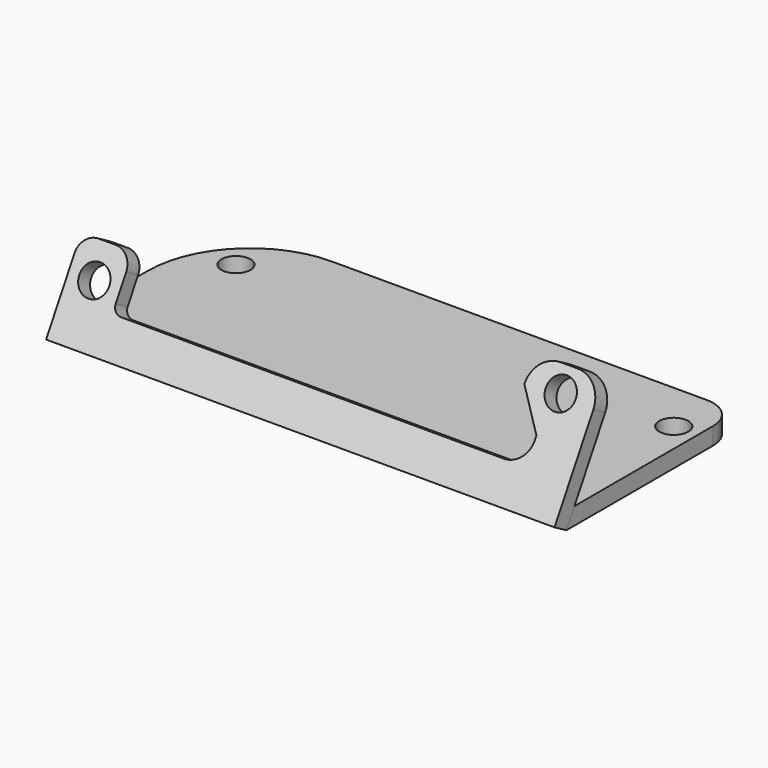
from build123d import *

# Parameters (mm, degrees)
SKETCH004_R          = 1.687519
PAD003_DEPTH         = 2
SKETCH003_R          = 1.746092
PAD002_DEPTH         = 2
FUSION001_ROLL_ANGLE = 90


with BuildPart() as base_and_horizontal_holder001:
    # Sketch004 → Pad003 (new body)
    with BuildSketch(Plane.XZ.offset(1.2525)):
        with BuildLine():
            Line((10.979984, 0), (69.999984, 0))
            Line((69.999984, 0), (69.999984, -21.282469))
            ThreePointArc((66.378106, -24.904346), (68.939161, -23.843523), (69.999984, -21.282469))
            Line((22.859289, -24.904346), (66.378106, -24.904346))
            ThreePointArc((10.979984, -13.025041), (14.459352, -21.424978), (22.859289, -24.904346))
            Line((10.979984, 0), (10.979984, -13.025041))
        make_face()
        with Locations((67.250754, -19)):
            Circle(SKETCH004_R, mode=Mode.SUBTRACT)
        with Locations((16.457754, -19)):
            Circle(SKETCH004_R, mode=Mode.SUBTRACT)
    extrude(amount=-PAD003_DEPTH)


with BuildPart() as obj1:
    # Sketch003 → Pad002 (new body)
    with BuildSketch(Plane(origin=(0, -0.167, -0.63), x_dir=(1, 0, 0), z_dir=(0, 0.5, 0.866025))):
        with BuildLine():
            Line((11.012519, -1.25328), (11.012519, 6.997142))
            ThreePointArc((13.001287, 8.992943), (11.59459, 8.405902), (11.012519, 6.997142))
            Line((13.001287, 8.992943), (15, 9))
            ThreePointArc((16.997615, 7.009425), (16.412099, 8.419465), (15, 9))
            Line((16.997615, 7.009425), (16.997615, 4))
            ThreePointArc((16.997615, 4), (17.290509, 3.292893), (17.997615, 3))
            Line((17.997615, 3), (62, 3))
            Line((62, 3), (62.401287, 3))
            ThreePointArc((62.401287, 3), (64.238855, 3.761145), (65, 5.598713))
            Line((65, 5.598713), (65, 6))
            Line((65, 6), (62, 10))
            ThreePointArc((65, 13), (62.87868, 12.12132), (62, 10))
            Line((65, 13), (67, 13))
            ThreePointArc((70, 10), (69.12132, 12.12132), (67, 13))
            Line((70, 10), (70, -1.25328))
            Line((11.012519, -1.25328), (70, -1.25328))
        make_face()
        with Locations((13.988471, 5.299093)):
            Circle(SKETCH003_R, mode=Mode.SUBTRACT)
        with Locations((66.082271, 10.342403)):
            Circle(SKETCH003_R, mode=Mode.SUBTRACT)
    extrude(amount=PAD002_DEPTH)

    # Fusion001: union base_and_horizontal_holder001
    add(base_and_horizontal_holder001.part)


with BuildPart() as obj1_1:
    # Fusion001 roll: moved
    add(obj1.part.rotate(Axis((0, 0, 0), (1, 0, 0)), FUSION001_ROLL_ANGLE))


with BuildPart() as obj1_2:
    # Fusion001 placement: moved
    add(obj1_1.part.moved(Location((-10.98, 2, 1.25))))


solid = obj1_2.part
